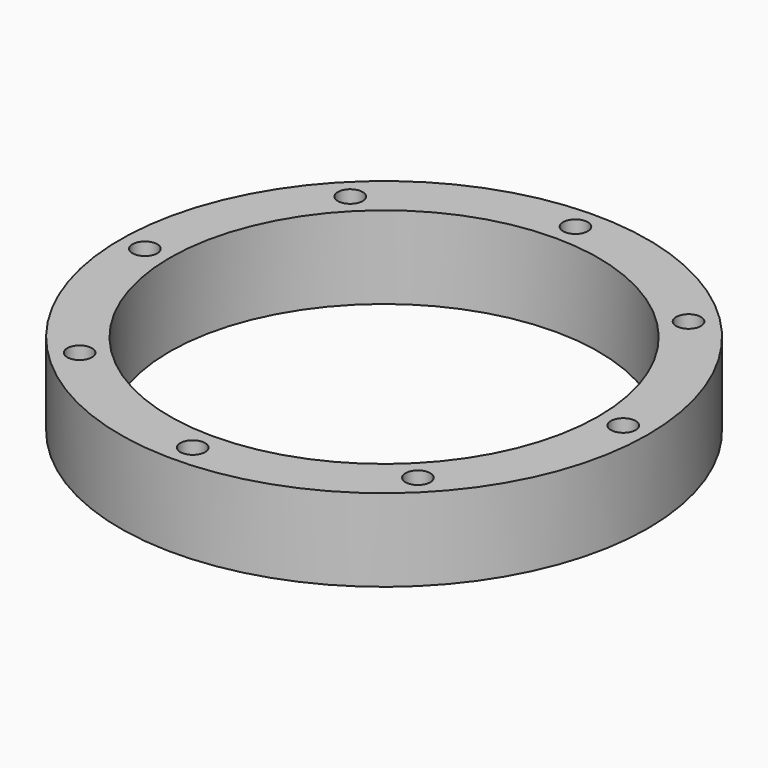
from build123d import *

# Parameters (mm, degrees)
CYLINDER188_R               = 1.5
CYLINDER188_DEPTH           = 30
CYLINDER188_PLACEMENT_ANGLE = 45
CYLINDER189_R               = 1.5
CYLINDER189_DEPTH           = 30
CYLINDER190_R               = 1.5
CYLINDER190_DEPTH           = 30
CYLINDER190_PLACEMENT_ANGLE = 135
CYLINDER191_R               = 1.5
CYLINDER191_DEPTH           = 30
CYLINDER192_R               = 1.5
CYLINDER192_DEPTH           = 30
CYLINDER192_PLACEMENT_ANGLE = 225
CYLINDER193_R               = 1.5
CYLINDER193_DEPTH           = 30
CYLINDER194_R               = 1.5
CYLINDER194_DEPTH           = 30
CYLINDER194_PLACEMENT_ANGLE = 45
CYLINDER187_R               = 1.5
CYLINDER187_DEPTH           = 30
TUBE012_R                   = 32
TUBE012_R_2                 = 26
TUBE012_DEPTH               = 10


with BuildPart() as obj1:
    # Cylinder188 → Cylinder188 (new body)
    with BuildSketch(Plane.XY):
        Circle(CYLINDER188_R)
    extrude(amount=CYLINDER188_DEPTH)


with BuildPart() as obj1_1:
    # Cylinder188 placement: moved
    add(obj1.part.moved(Location((20.506097, -20.506097, 0))).rotate(Axis((20.506097, -20.506097, 0), (0, 0, 1)), CYLINDER188_PLACEMENT_ANGLE))


with BuildPart() as obj2:
    # Cylinder189 → Cylinder189 (new body)
    with BuildSketch(Plane(origin=(29, 0, 0), x_dir=(0, 1, 0), z_dir=(0, 0, 1))):
        Circle(CYLINDER189_R)
    extrude(amount=CYLINDER189_DEPTH)


with BuildPart() as obj3:
    # Cylinder190 → Cylinder190 (new body)
    with BuildSketch(Plane.XY):
        Circle(CYLINDER190_R)
    extrude(amount=CYLINDER190_DEPTH)


with BuildPart() as obj3_1:
    # Cylinder190 placement: moved
    add(obj3.part.moved(Location((20.506097, 20.506097, 0))).rotate(Axis((20.506097, 20.506097, 0), (0, 0, 1)), CYLINDER190_PLACEMENT_ANGLE))


with BuildPart() as obj4:
    # Cylinder191 → Cylinder191 (new body)
    with BuildSketch(Plane(origin=(0, 29, 0), x_dir=(-1, 0, 0), z_dir=(0, 0, 1))):
        Circle(CYLINDER191_R)
    extrude(amount=CYLINDER191_DEPTH)


with BuildPart() as obj5:
    # Cylinder192 → Cylinder192 (new body)
    with BuildSketch(Plane.XY):
        Circle(CYLINDER192_R)
    extrude(amount=CYLINDER192_DEPTH)


with BuildPart() as obj5_1:
    # Cylinder192 placement: moved
    add(obj5.part.moved(Location((-20.506097, 20.506097, 0))).rotate(Axis((-20.506097, 20.506097, 0), (0, 0, 1)), CYLINDER192_PLACEMENT_ANGLE))


with BuildPart() as obj6:
    # Cylinder193 → Cylinder193 (new body)
    with BuildSketch(Plane(origin=(-29, 0, 0), x_dir=(0, -1, 0), z_dir=(0, 0, 1))):
        Circle(CYLINDER193_R)
    extrude(amount=CYLINDER193_DEPTH)


with BuildPart() as obj7:
    # Cylinder194 → Cylinder194 (new body)
    with BuildSketch(Plane.XY):
        Circle(CYLINDER194_R)
    extrude(amount=CYLINDER194_DEPTH)


with BuildPart() as obj7_1:
    # Cylinder194 placement: moved
    add(obj7.part.moved(Location((-20.506097, -20.506097, 0))).rotate(Axis((-20.506097, -20.506097, 0), (0, 0, -1)), CYLINDER194_PLACEMENT_ANGLE))


with BuildPart() as compound544:
    # Cylinder187 → Cylinder187 (new body)
    with BuildSketch(Plane(origin=(0, -29, 0), x_dir=(1, 0, 0), z_dir=(0, 0, 1))):
        Circle(CYLINDER187_R)
    extrude(amount=CYLINDER187_DEPTH)

    # Compound544: union obj1, obj2, obj3, obj4, obj5, obj6, obj7
    add(obj1_1.part)
    add(obj2.part)
    add(obj3_1.part)
    add(obj4.part)
    add(obj5_1.part)
    add(obj6.part)
    add(obj7_1.part)


with BuildPart() as cut318:
    # Tube012 → Tube012 (new body)
    with BuildSketch(Plane.XY.offset(10)):
        Circle(TUBE012_R)
        Circle(TUBE012_R_2, mode=Mode.SUBTRACT)
    extrude(amount=TUBE012_DEPTH)

    # Cut318: cut Compound544
    add(compound544.part, mode=Mode.SUBTRACT)


solid = cut318.part
